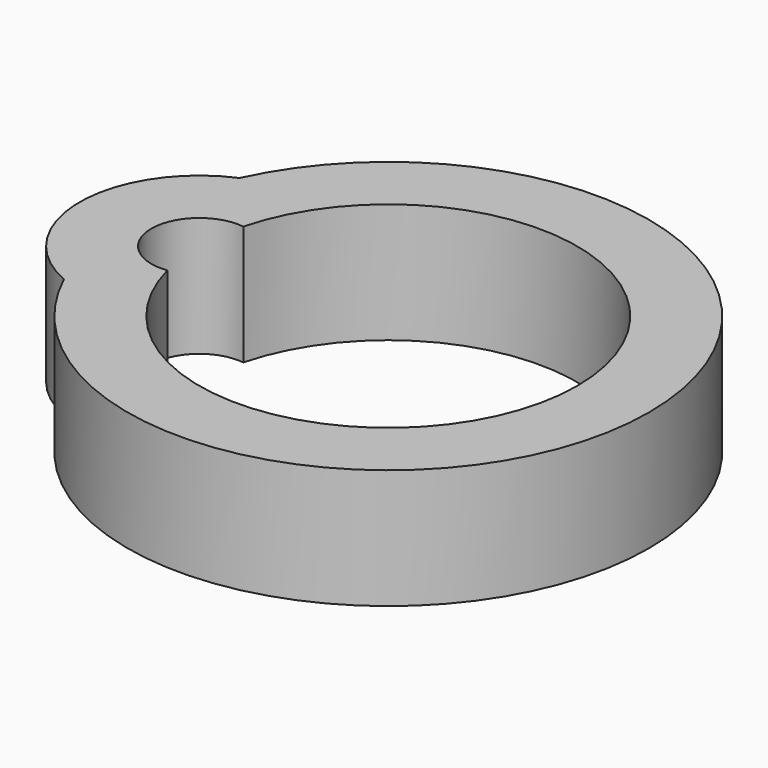
from build123d import *

# Parameters (mm, degrees)
F0_R     = 5.5372
F0_R_2   = 4.0132
F1_DEPTH = 2.54
F3_DEPTH = 2.541
F5_DEPTH = 2.54


with BuildPart() as f1:
    # F0 (on Top) → F1 (new body)
    with BuildSketch(Plane.XY):
        Circle(F0_R)
        Circle(F0_R_2, mode=Mode.SUBTRACT)
    extrude(amount=F1_DEPTH)

    # F2 (on face) → F3 (cut, through all)
    with BuildSketch(Plane.XY.offset(2.54)):
        with BuildLine():
            ThreePointArc((-3.884592, -1.007827), (-4.0132, 0), (-3.884592, 1.007827))
            ThreePointArc((-3.884592, 1.007827), (-5.0292, 0), (-3.884592, -1.007827))
        make_face()
    extrude(amount=-F3_DEPTH, mode=Mode.SUBTRACT)

    # F4 (on face) → F5 (join, through all)
    with BuildSketch(Plane.XY.offset(2.54)):
        with BuildLine():
            ThreePointArc((-5.02277, -2.330744), (-5.5372, 0), (-5.02277, 2.330744))
            ThreePointArc((-5.02277, 2.330744), (-6.5532, 0), (-5.02277, -2.330744))
        make_face()
    extrude(amount=-F5_DEPTH)


solid = f1.part
